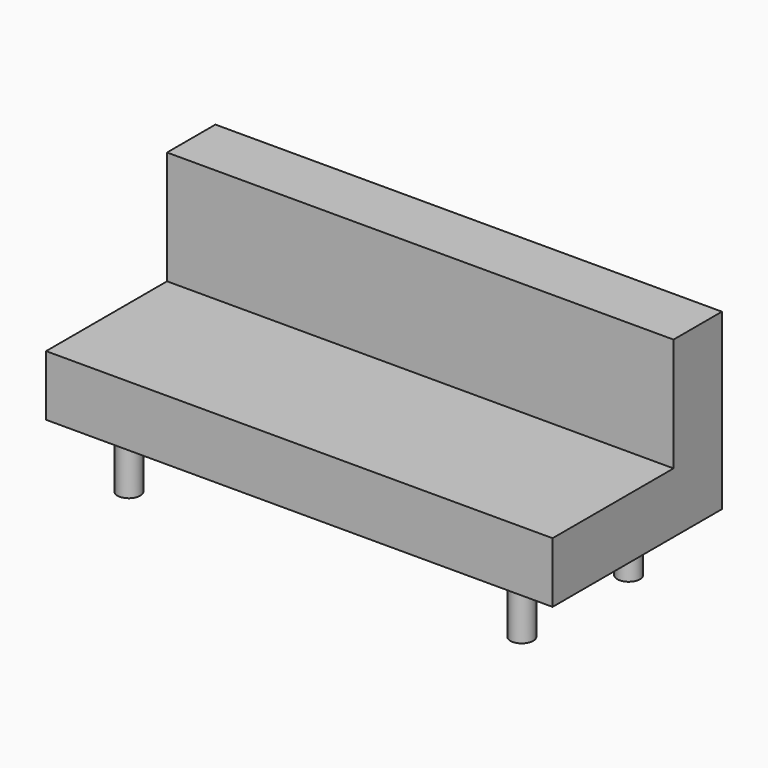
from build123d import *

# Parameters (mm, degrees)
F1_DEPTH = 850.9
F2_R     = 38.1
F3_DEPTH = 203.2


with BuildPart() as f1:
    # F0 (on Right) → F1 (new body, symmetric)
    with BuildSketch(Plane.YZ):
        Polygon((355.6, 292.1), (152.4, 292.1), (152.4, -88.9), (-355.6, -88.9), (-355.6, -292.1), (355.6, -292.1), align=None)
    extrude(amount=F1_DEPTH, both=True)

    # F2 (on face) → F3 (join)
    with BuildSketch(Plane(origin=(0, 0, -292.1), x_dir=(1, 0, 0), z_dir=(0, 0, -1))):
        with Locations((-670.48971, 233.564831)):
            Circle(F2_R)
        with Locations((-670.48971, -215.019056)):
            Circle(F2_R)
        with Locations((649.918179, -215.019056)):
            Circle(F2_R)
        with Locations((649.918179, 233.564831)):
            Circle(F2_R)
    extrude(amount=F3_DEPTH)


solid = f1.part
